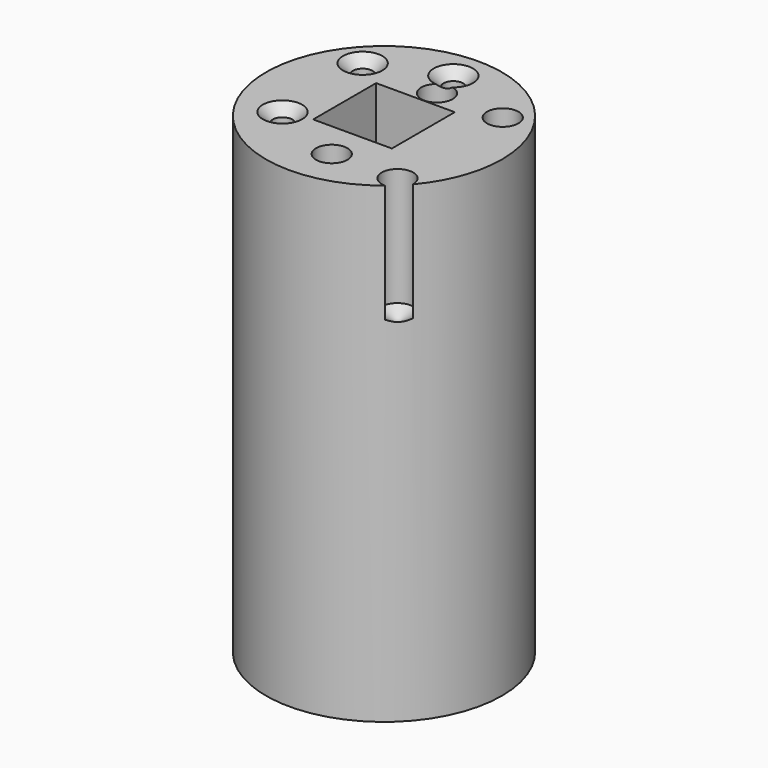
from build123d import *

# Parameters (mm, degrees)
F0_R           = 38.1
F1_DEPTH       = 152.4
F2_W           = 25.4
F2_H           = 25.4
F3_DEPTH       = 152.4
F5_D           = 6.35
F5_DEPTH       = 38.1
F5_CSINK_D     = 12.7
F5_CSINK_ANGLE = 90
F5_TIP         = 1.9077324654
F7_D           = 10.16
F7_DEPTH       = 38.1
F7_START       = 1.0133538
F7_TIP         = 3.0523719447


with BuildPart() as f1:
    # F0 (on Top) → F1 (new body)
    with BuildSketch(Plane.XY):
        Circle(F0_R)
    extrude(amount=F1_DEPTH)

    # F2 (on face) → F3 (cut, through all)
    with BuildSketch(Plane.XY.offset(152.4)):
        Rectangle(F2_W, F2_H)
    extrude(amount=-F3_DEPTH, mode=Mode.SUBTRACT)

    # F5
    with Locations(Plane.XY.offset(152.4)):
        with Locations((-21.2847962976, -14.3404845148), (-22.1120081842, 19.0418586135), (0, 27.9946457595)):
            CounterSinkHole(F5_D / 2, F5_CSINK_D / 2, depth=F5_DEPTH, counter_sink_angle=F5_CSINK_ANGLE)
            with Locations((0, 0, -(F5_DEPTH + F5_TIP / 2))):  # 118° drill point
                Cone(0, F5_D / 2, F5_TIP, mode=Mode.SUBTRACT)

    # F7
    # its depths count from where the whole tool has entered the part; down to there all is cleared
    with Locations(Plane.XY.offset(152.4)):
        with Locations((2.7354073245, -24.5092585683, 0), (23.9621736109, -24.5092585683, 0), (23.9621736109, 17.9442781955, 0), (2.7354073245, 17.9442781955, -F7_START)):
            Hole(F7_D / 2, depth=F7_DEPTH)
            with Locations((0, 0, -(F7_DEPTH + F7_TIP / 2))):  # 118° drill point
                Cone(0, F7_D / 2, F7_TIP, mode=Mode.SUBTRACT)


solid = f1.part
